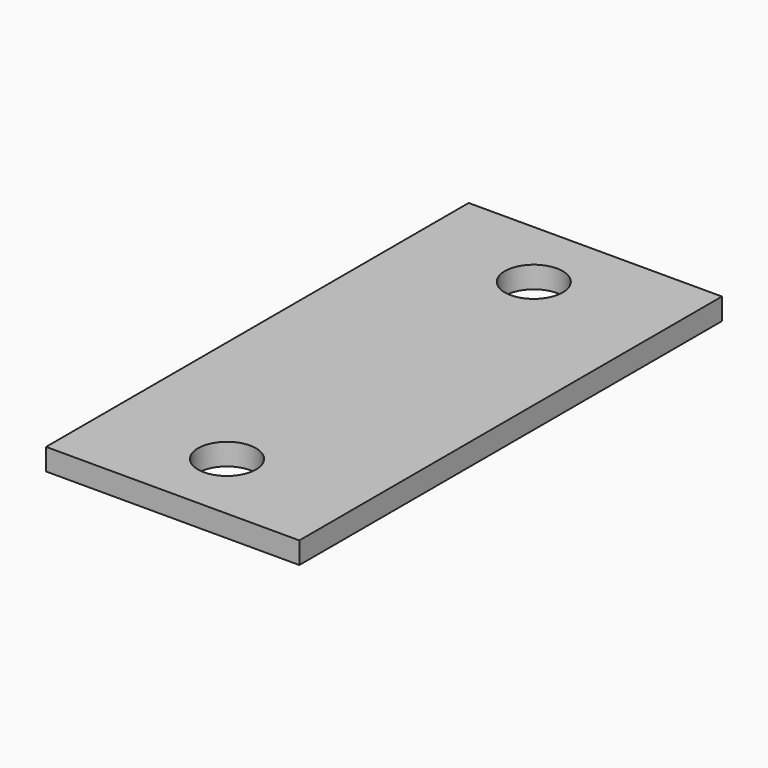
from build123d import *

# Parameters (mm, degrees)
F0_W     = 88.9
F0_H     = 185.42
F1_DEPTH = 7.62
F3_D     = 20.32


with BuildPart() as f1:
    # F0 (on Top) → F1 (new body)
    with BuildSketch(Plane.XY):
        with Locations((44.45, 92.71)):
            Rectangle(F0_W, F0_H)
    extrude(amount=F1_DEPTH)

    # F3 (through all)
    with Locations(Plane.XY.offset(7.62)):
        with Locations((43.18, 160.02), (43.18, 25.4)):
            Hole(F3_D / 2)


solid = f1.part
